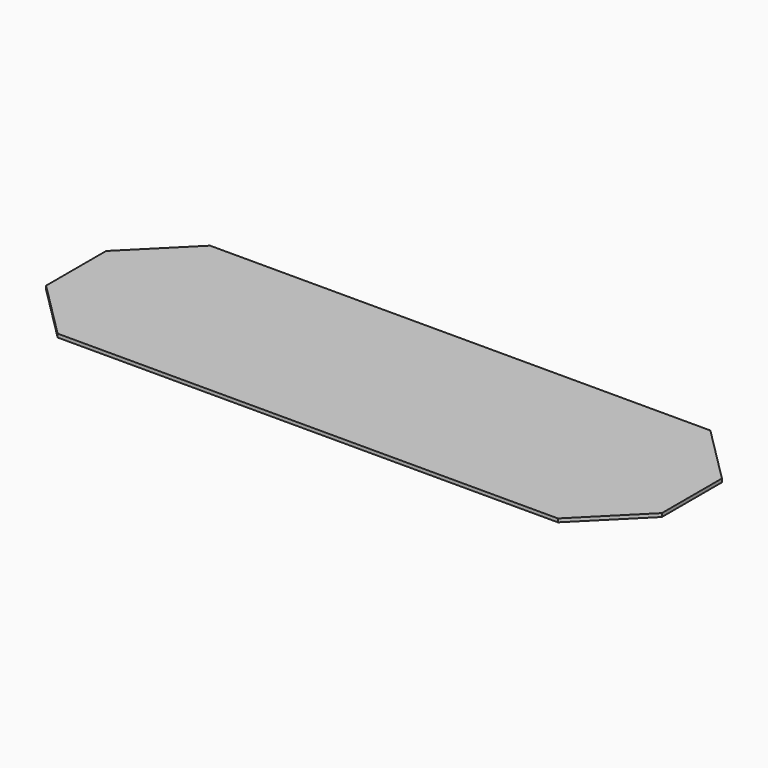
from build123d import *

# Parameters (mm, degrees)
F0_W     = 203.2
F0_H     = 62.865
F1_DEPTH = 1.143
F2_SIZE  = 19.05


with BuildPart() as f1:
    # F0 (on Top) → F1 (new body)
    with BuildSketch(Plane.XY):
        Rectangle(F0_W, F0_H)
    extrude(amount=F1_DEPTH)

    # F2
    f2_edges = [f1.edges().sort_by_distance(p)[0] for p in [
        (-101.6, -31.4325, 0.5715),
        (-101.6, 31.4325, 0.5715),
        (101.6, 31.4325, 0.5715),
        (101.6, -31.4325, 0.5715),
    ]]
    chamfer(f2_edges, length=F2_SIZE)


solid = f1.part
